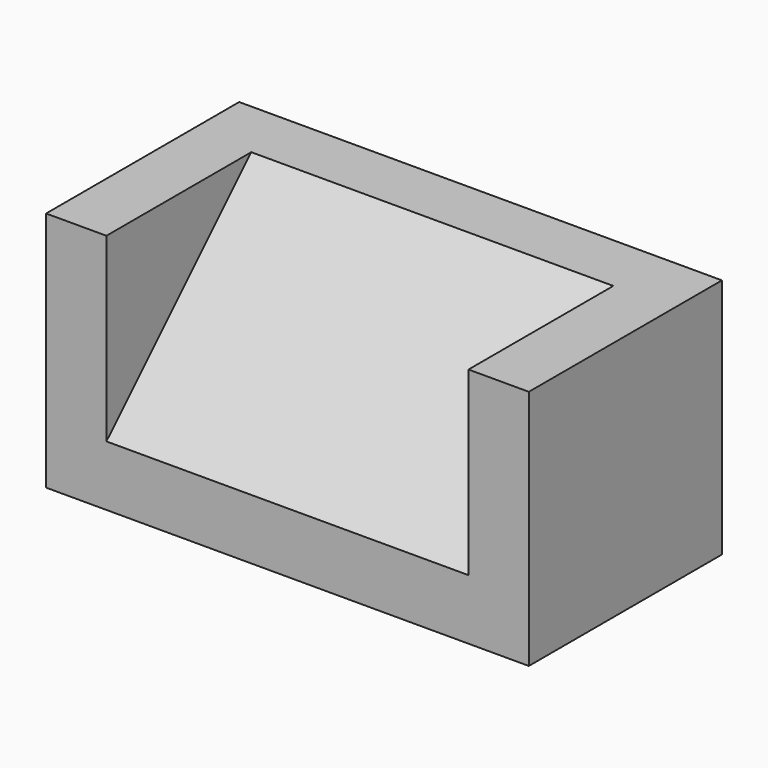
from build123d import *

# Parameters (mm, degrees)
F0_W     = 203.2
F0_H     = 101.6
F1_DEPTH = 101.6
F2_W     = 152.4
F2_H     = 76.2
F3_DEPTH = 76.2
F5_DEPTH = 152.4


with BuildPart() as f1:
    # F0 (on Top) → F1 (new body)
    with BuildSketch(Plane.XY):
        with Locations((-45.881206, 21.293739)):
            Rectangle(F0_W, F0_H)
    extrude(amount=F1_DEPTH)

    # F2 (on face) → F3 (cut)
    with BuildSketch(Plane.XY.offset(101.6)):
        with Locations((-45.881206, 8.593739)):
            Rectangle(F2_W, F2_H)
    extrude(amount=-F3_DEPTH, mode=Mode.SUBTRACT)

    # F4 (on face) → F5 (join)
    with BuildSketch(Plane.YZ.offset(-122.081206)):
        Polygon((46.693739, 25.4), (46.693739, 101.6), (-29.506261, 25.4), align=None)
    extrude(amount=F5_DEPTH)


solid = f1.part
